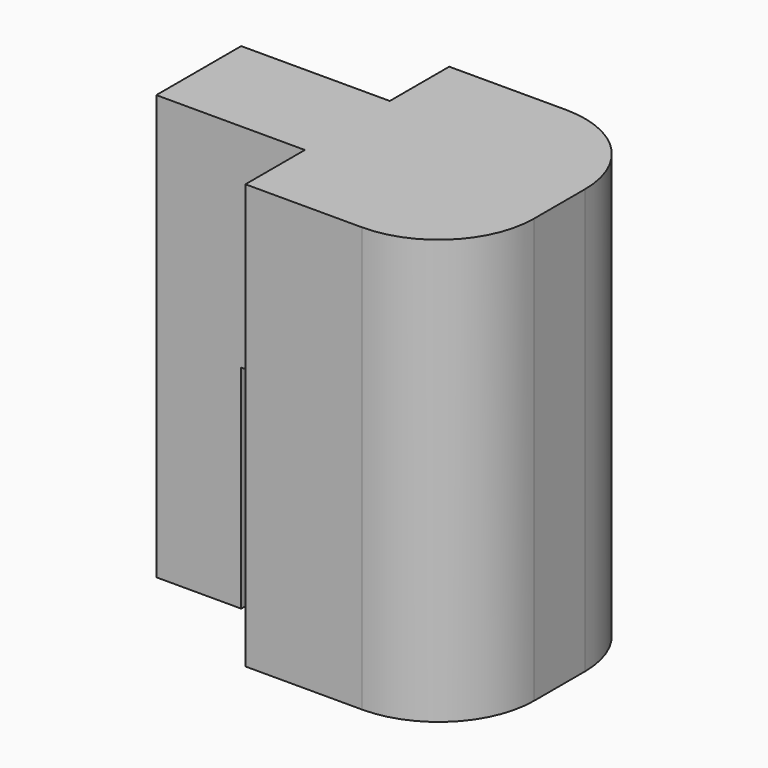
from build123d import *

# Parameters (mm, degrees)
PAD_DEPTH    = 20
SKETCH001_W  = 3
SKETCH001_H  = 10
POCKET_DEPTH = 8.501
FILLET_R     = 4.5


with BuildPart() as part:
    # Sketch → Pad (new body)
    with BuildSketch(Plane.XY):
        Polygon((-7, 2.5), (-7, -2.5), (0, -2.5), (0, -6), (10, -6), (10, 6), (0, 6), (0, 2.5), align=None)
    extrude(amount=PAD_DEPTH)

    # Sketch001 (on DatumPlane) → Pocket (cut, through all)
    with BuildSketch(Plane.XZ.offset(2.5)):
        with Locations((-1.5, 5)):
            Rectangle(SKETCH001_W, SKETCH001_H)
    extrude(amount=-POCKET_DEPTH, mode=Mode.SUBTRACT)

    # Fillet
    fillet_edges = [part.edges().sort_by_distance(p)[0] for p in [
        (10, 6, 10),
        (10, -6, 10),
    ]]
    fillet(fillet_edges, radius=FILLET_R)


solid = part.part
